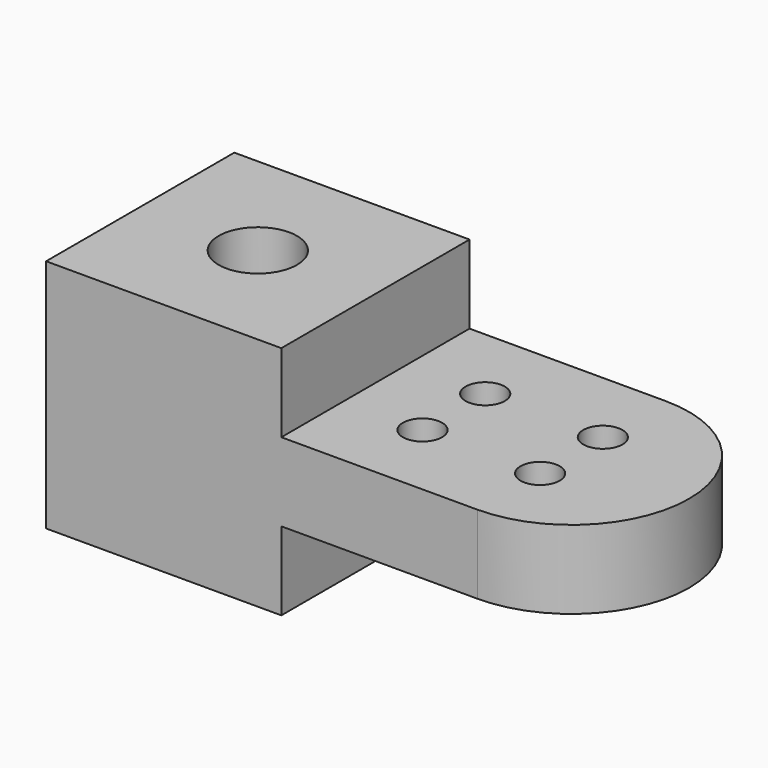
from build123d import *

# Parameters (mm, degrees)
F0_R     = 3.175
F1_DEPTH = 12.7
F3_DEPTH = 38.1
F4_R     = 6.35
F5_DEPTH = 38.101


with BuildPart() as f1:
    # F0 (on Top) → F1 (new body)
    with BuildSketch(Plane.XY):
        with BuildLine():
            Line((31.75, 0), (0, 0))
            Line((0, 0), (0, -38.1))
            Line((0, -38.1), (31.75, -38.1))
            ThreePointArc((31.75, -38.1), (50.8, -19.05), (31.75, 0))
        make_face()
        with Locations((12.7, -25.4)):
            Circle(F0_R, mode=Mode.SUBTRACT)
        with Locations((31.75, -25.4)):
            Circle(F0_R, mode=Mode.SUBTRACT)
        with Locations((12.7, -12.7)):
            Circle(F0_R, mode=Mode.SUBTRACT)
        with Locations((31.75, -12.7)):
            Circle(F0_R, mode=Mode.SUBTRACT)
    extrude(amount=F1_DEPTH)

    # F2 (on face) → F3 (join)
    with BuildSketch(Plane.XZ.offset(38.1)):
        Polygon((0, -12.7), (0, 0), (0, 12.7), (0, 25.4), (-38.1, 25.4), (-38.1, -12.7), align=None)
    extrude(amount=-F3_DEPTH)

    # F4 (on face) → F5 (cut, through all)
    with BuildSketch(Plane.XY.offset(25.4)):
        with Locations((-19.05, -19.05)):
            Circle(F4_R)
    extrude(amount=-F5_DEPTH, mode=Mode.SUBTRACT)


solid = f1.part
